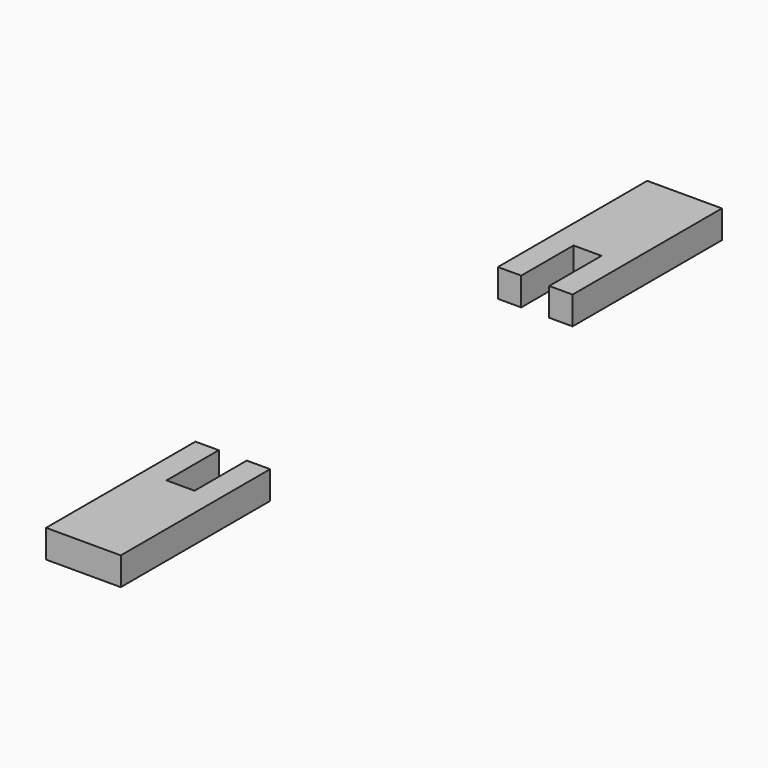
from build123d import *

# Parameters (mm, degrees)
F1_DEPTH = 19.05


with BuildPart() as f1:
    # F0 (on Top) → F1 (new body)
    with BuildSketch(Plane.XY):
        Polygon((-25.4, 42.8625), (-25.4, -84.1375), (25.4, -84.1375), (25.4, 42.8625), (9.525, 42.8625), (9.525, -1.5875), (-9.525, -1.5875), (-9.525, 42.8625), align=None)
        Polygon((9.525, 300.0375), (25.4, 300.0375), (25.4, 427.0375), (-25.4, 427.0375), (-25.4, 300.0375), (-9.525, 300.0375), (-9.525, 344.4875), (9.525, 344.4875), align=None)
    extrude(amount=F1_DEPTH)


solid = f1.part
